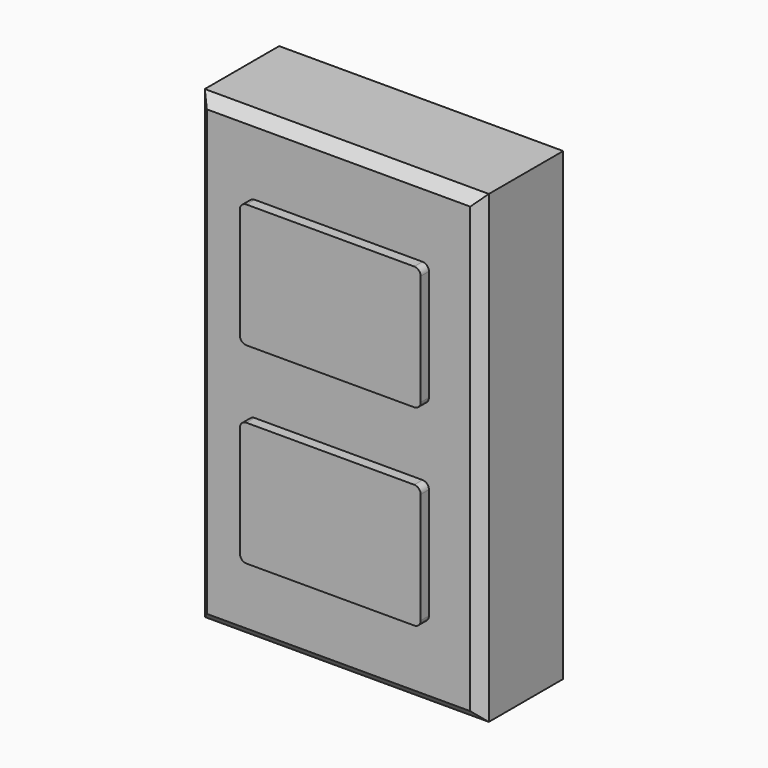
from build123d import *

# Parameters (mm, degrees)
F0_W      = 69.85
F0_H      = 114.3
F1_DEPTH  = 25.4
F2_SIZE   = 2.54
F4_DEPTH  = 2.54
F5_DEPTH  = 2.54
F6_DEPTH  = 2.54
F7_DEPTH  = 2.54
F8_W      = 44.45
F8_H      = 88.9
F9_DEPTH  = 17.78
F10_R     = 1.5875
F11_DEPTH = 7.62


with BuildPart() as f1:
    # F0 (on Front) → F1 (new body)
    with BuildSketch(Plane.XZ):
        Rectangle(F0_W, F0_H)
    extrude(amount=F1_DEPTH)

    # F2
    f2_edges = [f1.edges().sort_by_distance(p)[0] for p in [
        (-34.925, -25.4, 0),
        (0, -25.4, 57.15),
        (34.925, -25.4, 0),
        (0, -25.4, -57.15),
    ]]
    chamfer(f2_edges, length=F2_SIZE)

    # F3 (on face) → F4 (cut)
    with BuildSketch(Plane.XZ.offset(25.4)):
        with BuildLine():
            Line((20.6375, 38.862), (-20.6375, 38.862))
            ThreePointArc((-20.6375, 38.862), (-21.7600320151, 38.3970320151), (-22.225, 37.2745))
            Line((-22.225, 37.2745), (-22.225, 9.9695))
            ThreePointArc((-22.225, 9.9695), (-21.7600320151, 8.8469679849), (-20.6375, 8.382))
            Line((-20.6375, 8.382), (20.6375, 8.382))
            ThreePointArc((20.6375, 8.382), (21.7600320151, 8.8469679849), (22.225, 9.9695))
            Line((22.225, 9.9695), (22.225, 37.2745))
            ThreePointArc((22.225, 37.2745), (21.7600320151, 38.3970320151), (20.6375, 38.862))
        make_face()
        with BuildLine():
            Line((20.6375, -8.382), (-20.6375, -8.382))
            ThreePointArc((-20.6375, -8.382), (-21.7600320151, -8.8469679849), (-22.225, -9.9695))
            Line((-22.225, -9.9695), (-22.225, -37.2745))
            ThreePointArc((-22.225, -37.2745), (-21.7600320151, -38.3970320151), (-20.6375, -38.862))
            Line((-20.6375, -38.862), (20.6375, -38.862))
            ThreePointArc((20.6375, -38.862), (21.7600320151, -38.3970320151), (22.225, -37.2745))
            Line((22.225, -37.2745), (22.225, -9.9695))
            ThreePointArc((22.225, -9.9695), (21.7600320151, -8.8469679849), (20.6375, -8.382))
        make_face()
    extrude(amount=-F4_DEPTH, mode=Mode.SUBTRACT)

    # F8 (on face) → F9 (cut)
    with BuildSketch(Plane(origin=(0, 0, 0), x_dir=(-1, 0, 0), z_dir=(0, 1, 0))):
        Rectangle(F8_W, F8_H)
    extrude(amount=-F9_DEPTH, mode=Mode.SUBTRACT)


with BuildPart() as f5:
    # F3 (on face) → F5 (new body)
    with BuildSketch(Plane.XZ.offset(25.4)):
        with BuildLine():
            Line((20.6375, 38.862), (-20.6375, 38.862))
            ThreePointArc((-20.6375, 38.862), (-21.7600320151, 38.3970320151), (-22.225, 37.2745))
            Line((-22.225, 37.2745), (-22.225, 9.9695))
            ThreePointArc((-22.225, 9.9695), (-21.7600320151, 8.8469679849), (-20.6375, 8.382))
            Line((-20.6375, 8.382), (20.6375, 8.382))
            ThreePointArc((20.6375, 8.382), (21.7600320151, 8.8469679849), (22.225, 9.9695))
            Line((22.225, 9.9695), (22.225, 37.2745))
            ThreePointArc((22.225, 37.2745), (21.7600320151, 38.3970320151), (20.6375, 38.862))
        make_face()
    extrude(amount=F5_DEPTH)

    # F3 (on face) → F6 (join)
    with BuildSketch(Plane.XZ.offset(25.4)):
        with BuildLine():
            Line((20.6375, 38.862), (-20.6375, 38.862))
            ThreePointArc((-20.6375, 38.862), (-21.7600320151, 38.3970320151), (-22.225, 37.2745))
            Line((-22.225, 37.2745), (-22.225, 9.9695))
            ThreePointArc((-22.225, 9.9695), (-21.7600320151, 8.8469679849), (-20.6375, 8.382))
            Line((-20.6375, 8.382), (20.6375, 8.382))
            ThreePointArc((20.6375, 8.382), (21.7600320151, 8.8469679849), (22.225, 9.9695))
            Line((22.225, 9.9695), (22.225, 37.2745))
            ThreePointArc((22.225, 37.2745), (21.7600320151, 38.3970320151), (20.6375, 38.862))
        make_face()
    extrude(amount=-F6_DEPTH)


with BuildPart() as f5b:
    # F3 (on face) → F5, piece 2 (new body)
    with BuildSketch(Plane.XZ.offset(25.4)):
        with BuildLine():
            Line((20.6375, -8.382), (-20.6375, -8.382))
            ThreePointArc((-20.6375, -8.382), (-21.7600320151, -8.8469679849), (-22.225, -9.9695))
            Line((-22.225, -9.9695), (-22.225, -37.2745))
            ThreePointArc((-22.225, -37.2745), (-21.7600320151, -38.3970320151), (-20.6375, -38.862))
            Line((-20.6375, -38.862), (20.6375, -38.862))
            ThreePointArc((20.6375, -38.862), (21.7600320151, -38.3970320151), (22.225, -37.2745))
            Line((22.225, -37.2745), (22.225, -9.9695))
            ThreePointArc((22.225, -9.9695), (21.7600320151, -8.8469679849), (20.6375, -8.382))
        make_face()
    extrude(amount=F5_DEPTH)

    # F3 (on face) → F7 (join)
    with BuildSketch(Plane.XZ.offset(25.4)):
        with BuildLine():
            Line((20.6375, -8.382), (-20.6375, -8.382))
            ThreePointArc((-20.6375, -8.382), (-21.7600320151, -8.8469679849), (-22.225, -9.9695))
            Line((-22.225, -9.9695), (-22.225, -37.2745))
            ThreePointArc((-22.225, -37.2745), (-21.7600320151, -38.3970320151), (-20.6375, -38.862))
            Line((-20.6375, -38.862), (20.6375, -38.862))
            ThreePointArc((20.6375, -38.862), (21.7600320151, -38.3970320151), (22.225, -37.2745))
            Line((22.225, -37.2745), (22.225, -9.9695))
            ThreePointArc((22.225, -9.9695), (21.7600320151, -8.8469679849), (20.6375, -8.382))
        make_face()
    extrude(amount=-F7_DEPTH)


with BuildPart() as f11_tool:
    # F10 (on face) → F11 (new body)
    with BuildSketch(Plane(origin=(0, -17.78, 0), x_dir=(-1, 0, 0), z_dir=(0, 1, 0))):
        with Locations((-10.16, 23.622)):
            Circle(F10_R)
        with Locations((10.16, 23.622)):
            Circle(F10_R)
        with Locations((-10.16, -23.622)):
            Circle(F10_R)
        with Locations((10.16, -23.622)):
            Circle(F10_R)
    extrude(amount=-F11_DEPTH)


with BuildPart() as f1_1:
    add(f1.part)

    # F11: cut by f11_tool
    add(f11_tool.part, mode=Mode.SUBTRACT)


with BuildPart() as f5_1:
    add(f5.part)

    # F11: cut by f11_tool
    add(f11_tool.part, mode=Mode.SUBTRACT)


with BuildPart() as f5b_1:
    add(f5b.part)

    # F11: cut by f11_tool
    add(f11_tool.part, mode=Mode.SUBTRACT)


solid = Compound([f1_1.part, f5_1.part, f5b_1.part])
